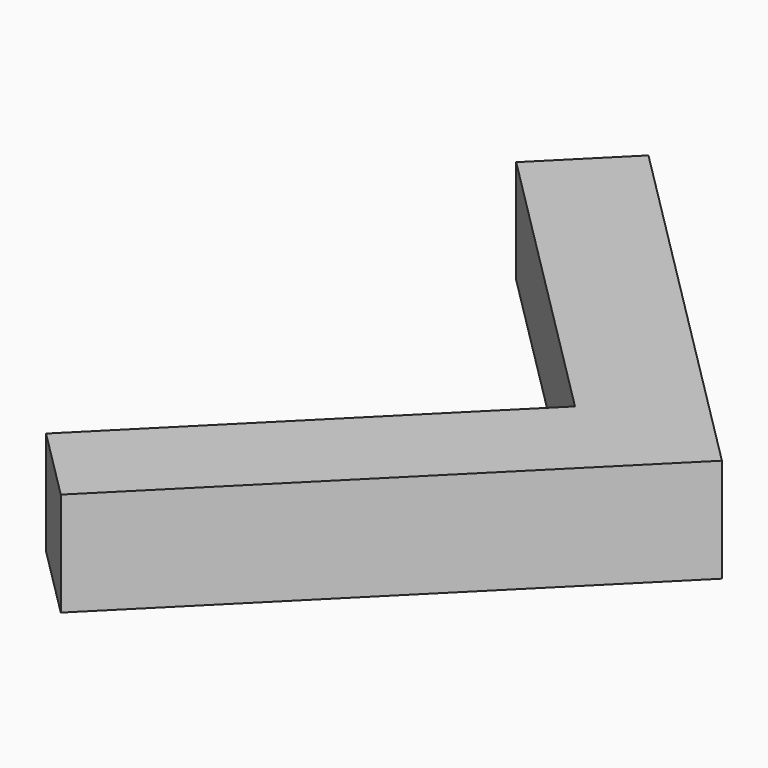
from build123d import *

# Parameters (mm, degrees)
BOX076_W               = 1
BOX076_H               = 5
BOX076_DEPTH           = 1
BOX076_PLACEMENT_ANGLE = 45
BOX079_W               = 1
BOX079_H               = 4
BOX079_DEPTH           = 1
BOX079_PLACEMENT_ANGLE = 135


with BuildPart() as cube076:
    # Box076 → Box076 (new body)
    with BuildSketch(Plane.XY):
        with Locations((0.5, 2.5)):
            Rectangle(BOX076_W, BOX076_H)
    extrude(amount=BOX076_DEPTH)


with BuildPart() as cube076_1:
    # Box076 placement: moved
    add(cube076.part.rotate(Axis((0, 0, 0), (0, 0, 1)), BOX076_PLACEMENT_ANGLE))


with BuildPart() as obj1:
    # Box079 → Box079 (new body)
    with BuildSketch(Plane.XY):
        with Locations((0.5, 2)):
            Rectangle(BOX079_W, BOX079_H)
    extrude(amount=BOX079_DEPTH)


with BuildPart() as obj1_1:
    # Box079 placement: moved
    add(obj1.part.rotate(Axis((0, 0, 0), (0, 0, 1)), BOX079_PLACEMENT_ANGLE))

    # Fusion013: union Cube076
    add(cube076_1.part)


with BuildPart() as obj1_2:
    # Fusion013 placement: moved
    add(obj1_1.part.moved(Location((16, 5, 0))))


solid = obj1_2.part
